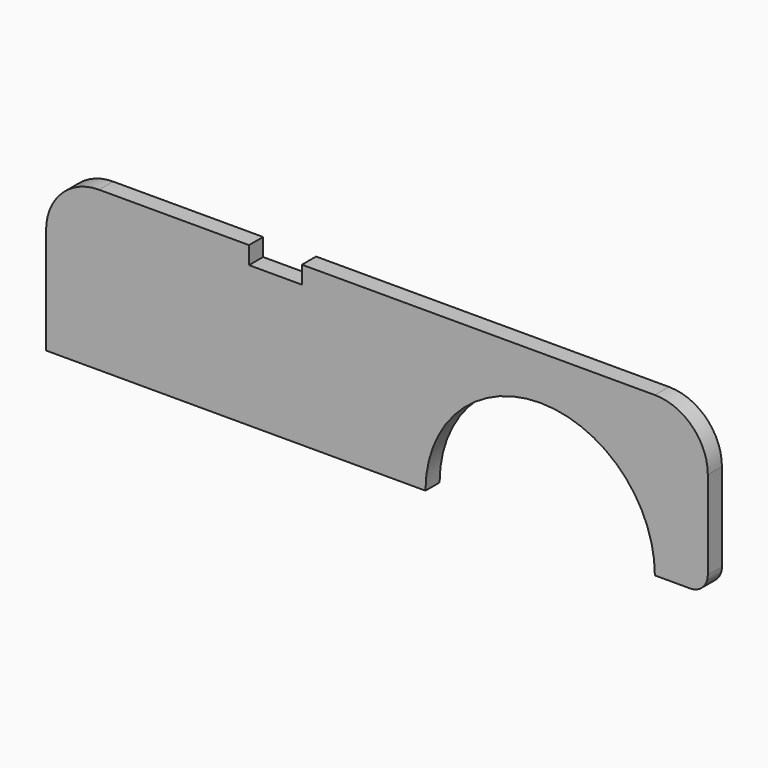
from build123d import *

# Parameters (mm, degrees)
F1_DEPTH = 5


with BuildPart() as f1:
    # F0 (on Front) → F1 (new body)
    with BuildSketch(Plane.XZ):
        with BuildLine():
            ThreePointArc((-32.5, 0), (0, 32.5), (32.5, 0))
            Line((32.5, 0), (42.5, 0))
            ThreePointArc((42.5, 0), (46.035534, 1.464466), (47.5, 5))
            Line((47.5, 5), (47.5, 30))
            ThreePointArc((47.5, 30), (43.106602, 40.606602), (32.5, 45))
            Line((32.5, 45), (-67.5, 45))
            Line((-67.5, 45), (-67.5, 40))
            Line((-67.5, 40), (-82.5, 40))
            Line((-82.5, 40), (-82.5, 45))
            Line((-82.5, 45), (-125, 45))
            ThreePointArc((-125, 45), (-135.606602, 40.606602), (-140, 30))
            Line((-140, 30), (-140, 0))
            Line((-140, 0), (-130, 0))
            Line((-130, 0), (-32.5, 0))
        make_face()
    extrude(amount=F1_DEPTH)


solid = f1.part
